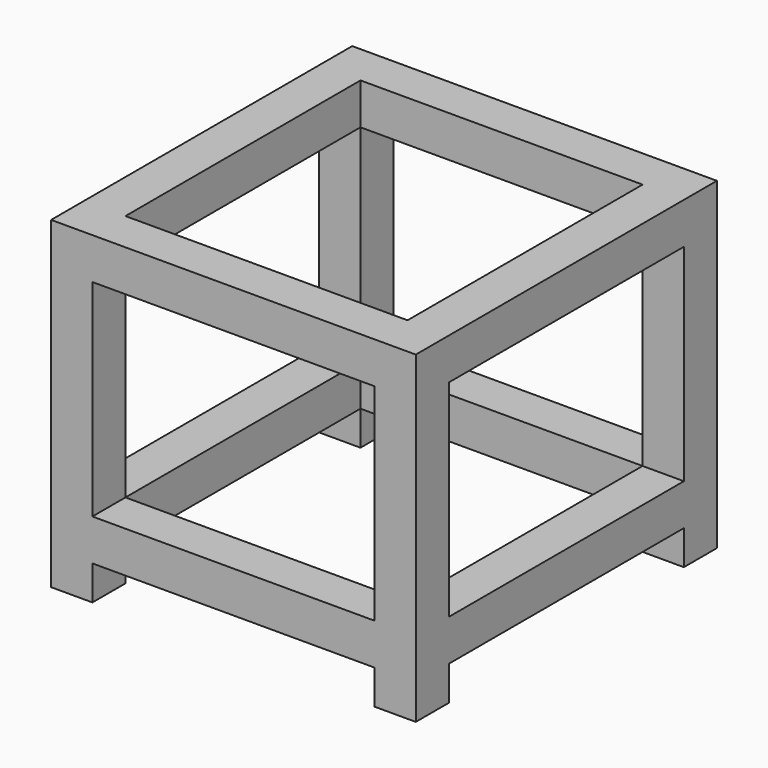
from build123d import *

# Parameters (mm, degrees)
F0_W     = 530
F0_H     = 547
F0_W_2   = 410
F0_H_2   = 427
F1_DEPTH = 60
F2_W     = 60
F2_H     = 60
F3_DEPTH = 300
F4_W     = 530
F4_H     = 547
F4_W_2   = 410
F4_H_2   = 427
F5_DEPTH = 60
F6_W     = 60
F6_H     = 60
F7_DEPTH = 50


with BuildPart() as f1:
    # F0 (on Top) → F1 (new body)
    with BuildSketch(Plane.XY):
        Rectangle(F0_W, F0_H)
        Rectangle(F0_W_2, F0_H_2, mode=Mode.SUBTRACT)
    extrude(amount=F1_DEPTH)

    # F2 (on face) → F3 (join)
    with BuildSketch(Plane(origin=(0, 0, 0), x_dir=(1, 0, 0), z_dir=(0, 0, -1))):
        with Locations((-235, 243.5)):
            Rectangle(F2_W, F2_H)
        with Locations((235, 243.5)):
            Rectangle(F2_W, F2_H)
        with Locations((-235, -243.5)):
            Rectangle(F2_W, F2_H)
        with Locations((235, -243.5)):
            Rectangle(F2_W, F2_H)
    extrude(amount=F3_DEPTH)

    # F4 (on face) → F5 (join)
    with BuildSketch(Plane(origin=(0, 0, -300), x_dir=(1, 0, 0), z_dir=(0, 0, -1))):
        Rectangle(F4_W, F4_H)
        Rectangle(F4_W_2, F4_H_2, mode=Mode.SUBTRACT)
    extrude(amount=F5_DEPTH)

    # F6 (on face) → F7 (join)
    with BuildSketch(Plane(origin=(0, 0, -360), x_dir=(1, 0, 0), z_dir=(0, 0, -1))):
        with Locations((-235, 243.5)):
            Rectangle(F6_W, F6_H)
        with Locations((235, 243.5)):
            Rectangle(F6_W, F6_H)
        with Locations((-235, -243.5)):
            Rectangle(F6_W, F6_H)
        with Locations((235, -243.5)):
            Rectangle(F6_W, F6_H)
    extrude(amount=F7_DEPTH)


solid = f1.part
